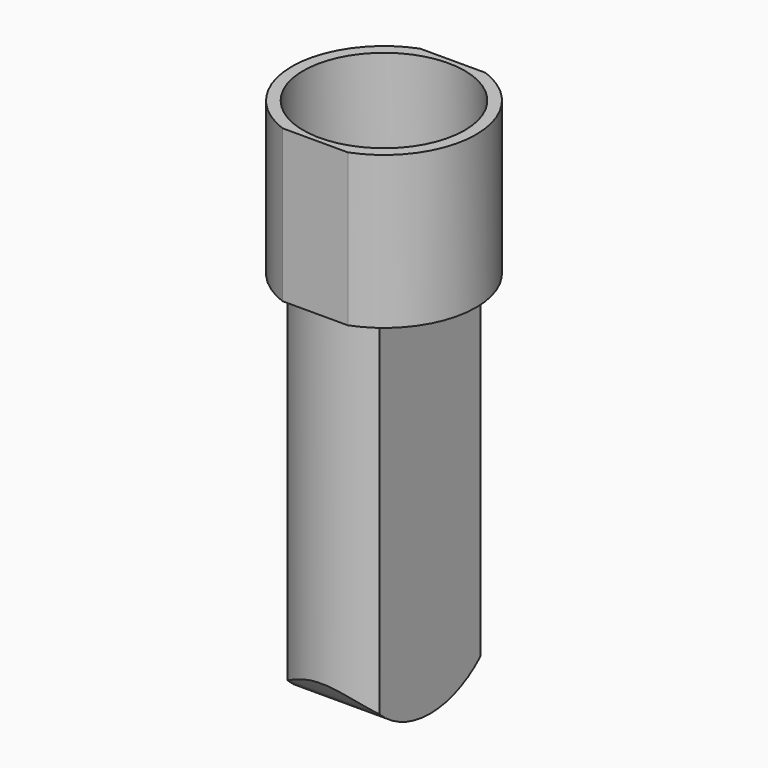
from build123d import *

# Parameters (mm, degrees)
F1_DEPTH = 38
F2_R     = 20.15
F3_DEPTH = 26
F5_DEPTH = 93
F7_DEPTH = 25


with BuildPart() as f1:
    # F0 (on Top) → F1 (new body)
    with BuildSketch(Plane.XY):
        with BuildLine():
            Line((8.170067, 21.5), (-8.170067, 21.5))
            ThreePointArc((-8.170067, 21.5), (-23, 0), (-8.170067, -21.5))
            Line((-8.170067, -21.5), (8.170067, -21.5))
            ThreePointArc((8.170067, -21.5), (23, 0), (8.170067, 21.5))
        make_face()
        with BuildLine():
            Line((8.170067, 21.5), (-8.170067, 21.5))
            ThreePointArc((-8.170067, 21.5), (-23, 0), (-8.170067, -21.5))
            Line((-8.170067, -21.5), (8.170067, -21.5))
            ThreePointArc((8.170067, -21.5), (23, 0), (8.170067, 21.5))
        make_face()
    extrude(amount=F1_DEPTH)

    # F2 (on face) → F3 (cut)
    with BuildSketch(Plane.XY.offset(38)):
        Circle(F2_R)
    extrude(amount=-F3_DEPTH, mode=Mode.SUBTRACT)

    # F4 (on face) → F5 (join)
    with BuildSketch(Plane(origin=(0, 0, 0), x_dir=(1, 0, 0), z_dir=(0, 0, -1))):
        with BuildLine():
            Line((-11.5, 15.748016), (-11.5, -15.748016))
            ThreePointArc((-11.5, -15.748016), (0, -19.5), (11.5, -15.748016))
            Line((11.5, -15.748016), (11.5, 15.748016))
            ThreePointArc((11.5, 15.748016), (0, 19.5), (-11.5, 15.748016))
        make_face()
    extrude(amount=F5_DEPTH)

    # F6 (on face) → F7 (cut)
    with BuildSketch(Plane.YZ.offset(11.5)):
        with BuildLine():
            ThreePointArc((-15.748016, -86.763055), (-17.764107, -84.609467), (-19.487961, -82.215538))
            Line((-19.487961, -82.215538), (-28.914114, -105.737165))
            Line((-28.914114, -105.737165), (31.311773, -98.208927))
            Line((31.311773, -98.208927), (19.479065, -82.229718))
            ThreePointArc((19.479065, -82.229718), (17.758789, -84.61593), (15.748016, -86.763055))
            Line((15.748016, -86.763055), (15.748016, -93))
            Line((15.748016, -93), (0, -93))
            Line((0, -93), (-15.748016, -93))
            Line((-15.748016, -93), (-15.748016, -86.763055))
        make_face()
        with BuildLine():
            ThreePointArc((15.748016, -86.763055), (8.469054, -91.383992), (0, -93))
            Line((0, -93), (15.748016, -93))
            Line((15.748016, -93), (15.748016, -86.763055))
        make_face()
        with BuildLine():
            ThreePointArc((0, -93), (-8.469054, -91.383992), (-15.748016, -86.763055))
            Line((-15.748016, -86.763055), (-15.748016, -93))
            Line((-15.748016, -93), (0, -93))
        make_face()
    extrude(amount=-F7_DEPTH, mode=Mode.SUBTRACT)


solid = f1.part
